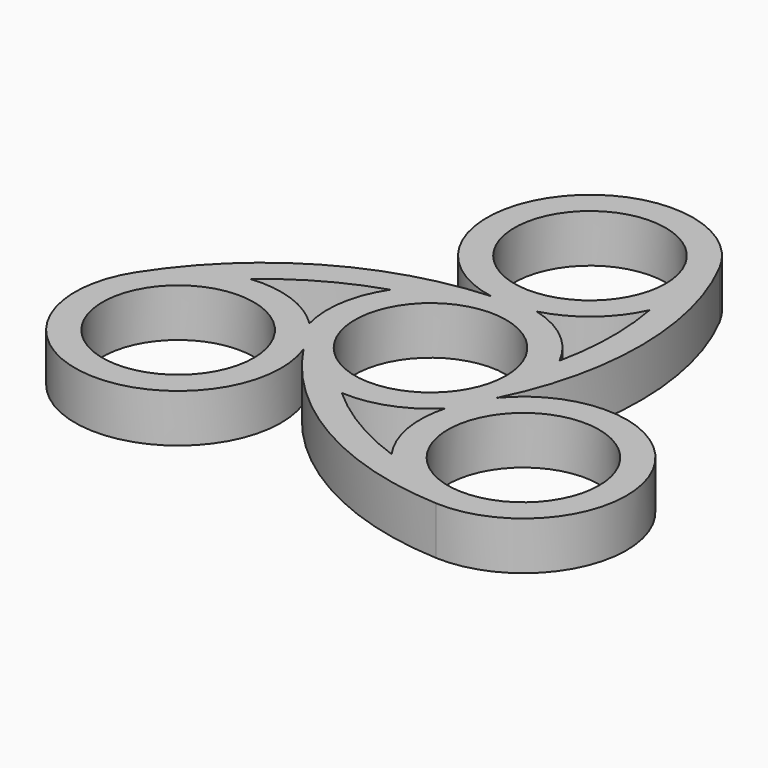
from build123d import *

# Parameters (mm, degrees)
F0_R     = 11
F1_DEPTH = 7
F3_DEPTH = 25


with BuildPart() as f1:
    # F0 (on Top) → F1 (new body)
    with BuildSketch(Plane.XY):
        with BuildLine():
            ThreePointArc((13.329884, 35.878532), (-12.10717, 37.855305), (-2.516762, 14.212644))
            ThreePointArc((-2.516762, 14.212644), (-22.596858, 8.130298), (-37.736662, -6.395248))
            ThreePointArc((-37.736662, -6.395248), (-26.73007, -29.41277), (-11.050129, -9.285902))
            ThreePointArc((-11.050129, -9.285902), (4.257384, -23.634602), (24.406778, -29.483284))
            ThreePointArc((24.406778, -29.483284), (38.837241, -8.442535), (13.566892, -4.926742))
            ThreePointArc((13.566892, -4.926742), (18.339474, 15.504304), (13.329884, 35.878532))
        make_face()
        with Locations((-25.114737, -14.5)):
            Circle(F0_R, mode=Mode.SUBTRACT)
        with Locations((25.114737, -14.5)):
            Circle(F0_R, mode=Mode.SUBTRACT)
        Circle(F0_R, mode=Mode.SUBTRACT)
        with Locations((0, 29)):
            Circle(F0_R, mode=Mode.SUBTRACT)
    extrude(amount=F1_DEPTH)

    # F2 (on face) → F3 (cut)
    with BuildSketch(Plane.XY.offset(7)):
        with BuildLine():
            ThreePointArc((13.643858, 22.767414), (9.670257, 17.53326), (3.840573, 14.5))
            ThreePointArc((3.840573, 14.5), (9.482877, 11.622179), (13.434387, 6.672125))
            ThreePointArc((13.434387, 6.672125), (14.336761, 14.709389), (13.643858, 22.767414))
        make_face()
        with BuildLine():
            ThreePointArc((-14.477655, -3.923966), (-14.806541, 2.401323), (-12.495423, 8.298458))
            ThreePointArc((-12.495423, 8.298458), (-19.907085, 5.061305), (-26.539088, 0.432221))
            ThreePointArc((-26.539088, 0.432221), (-20.019377, -0.391942), (-14.477655, -3.923966))
        make_face()
        with BuildLine():
            ThreePointArc((10.637082, -10.576034), (5.323663, -14.023502), (-0.938964, -14.970583))
            ThreePointArc((-0.938964, -14.970583), (5.570324, -19.770693), (12.89523, -23.199635))
            ThreePointArc((12.89523, -23.199635), (10.34912, -17.141318), (10.637082, -10.576034))
        make_face()
    extrude(amount=-F3_DEPTH, mode=Mode.SUBTRACT)


solid = f1.part
